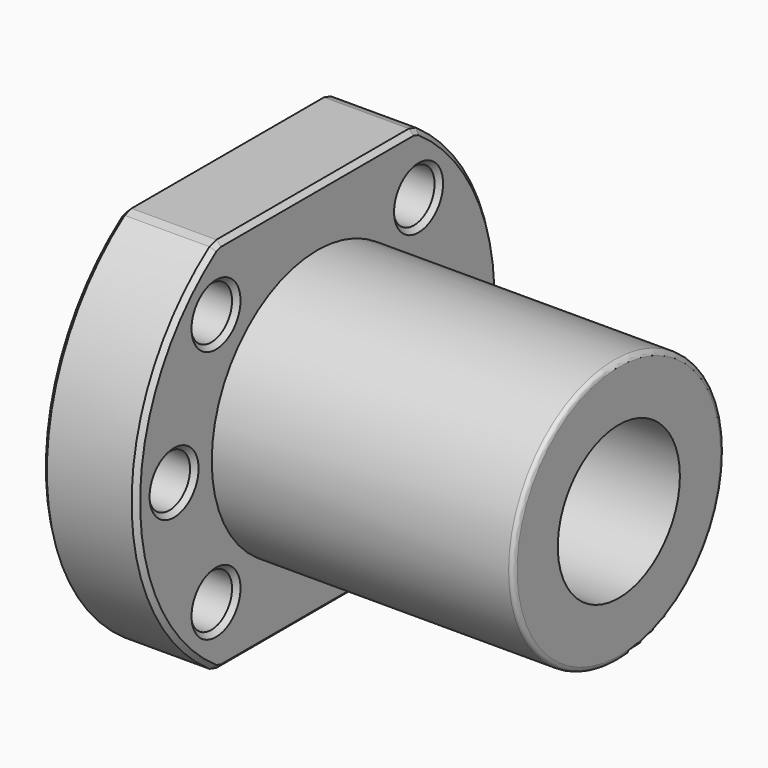
from build123d import *

# Parameters (mm, degrees)
SKETCH_R        = 2.75
SKETCH_R_2      = 8.1
PAD_DEPTH       = 10
SKETCH001_R     = 14
SKETCH001_R_2   = 8.1
PAD001_DEPTH    = 32
CHAMFER_SIZE    = 0.5
FILLET_R        = 0.5
CHAMFER001_SIZE = 0.5


with BuildPart() as part:
    # Sketch → Pad (new body)
    with BuildSketch(Plane.YZ):
        with BuildLine():
            ThreePointArc((-13.266499, 20), (-24, 0), (-13.266499, -20))
            Line((-13.266499, -20), (13.266499, -20))
            ThreePointArc((13.266499, -20), (24, 0), (13.266499, 20))
            Line((-13.266499, 20), (13.266499, 20))
        make_face()
        with Locations((-13.435058, 13.435)):
            Circle(SKETCH_R, mode=Mode.SUBTRACT)
        with Locations((-19, 0)):
            Circle(SKETCH_R, mode=Mode.SUBTRACT)
        with Locations((-13.435058, -13.435)):
            Circle(SKETCH_R, mode=Mode.SUBTRACT)
        with Locations((13.435058, 13.435)):
            Circle(SKETCH_R, mode=Mode.SUBTRACT)
        with Locations((19, 0)):
            Circle(SKETCH_R, mode=Mode.SUBTRACT)
        with Locations((13.435058, -13.435)):
            Circle(SKETCH_R, mode=Mode.SUBTRACT)
        Circle(SKETCH_R_2, mode=Mode.SUBTRACT)
    extrude(amount=PAD_DEPTH)

    # Sketch001 → Pad001 (new body)
    with BuildSketch(Plane.YZ.offset(10)):
        Circle(SKETCH001_R)
        Circle(SKETCH001_R_2, mode=Mode.SUBTRACT)
    extrude(amount=PAD001_DEPTH)

    # Chamfer
    chamfer_edges = [part.edges().sort_by_distance(p)[0] for p in [
        (0, -16.185058, -13.435),
        (10, -16.185058, -13.435),
        (0, -21.75, 0),
        (10, -21.75, 0),
        (0, -16.185058, 13.435),
        (10, -16.185058, 13.435),
        (0, 10.685058, 13.435),
        (10, 10.685058, 13.435),
        (0, 16.25, 0),
        (10, 16.25, 0),
        (0, 10.685058, -13.435),
        (10, 10.685058, -13.435),
    ]]
    chamfer(chamfer_edges, length=CHAMFER_SIZE)

    # Fillet
    fillet_edges = [part.edges().sort_by_distance(p)[0] for p in [
        (42, -14, 0),
    ]]
    fillet(fillet_edges, radius=FILLET_R)

    # Chamfer001
    chamfer001_edges = [part.edges().sort_by_distance(p)[0] for p in [
        (5, -13.266499, 20),
        (5, -13.266499, -20),
        (0, -24, 0),
        (10, -24, 0),
        (5, 13.266499, 20),
        (0, 0, 20),
        (10, 0, 20),
        (5, 13.266499, -20),
        (0, 24, 0),
        (10, 24, 0),
        (0, 0, -20),
        (10, 0, -20),
    ]]
    chamfer(chamfer001_edges, length=CHAMFER001_SIZE)


solid = part.part
